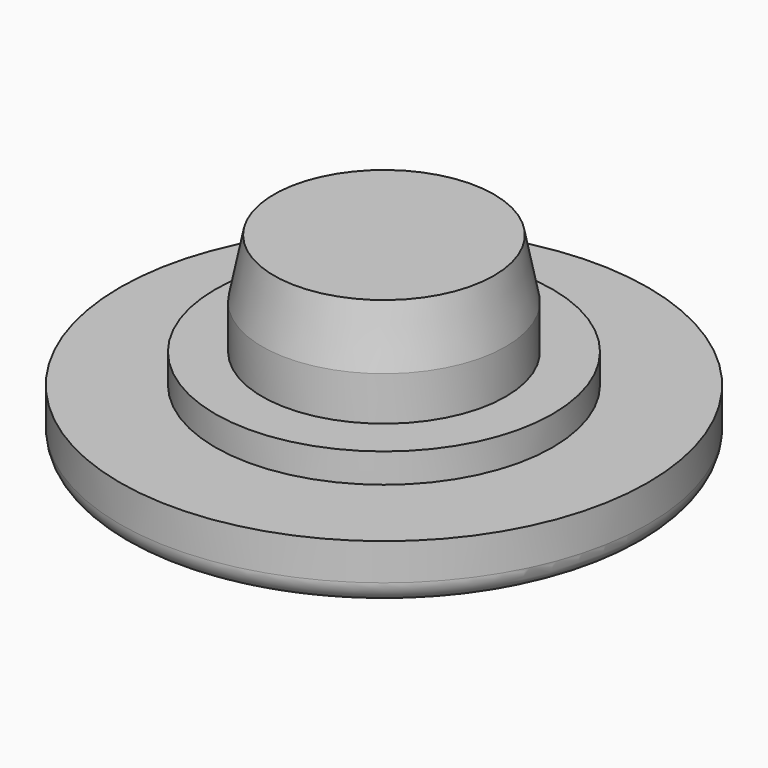
from build123d import *

# Parameters (mm, degrees)
F0_R     = 9
F1_DEPTH = 2
F2_R     = 5.75
F3_DEPTH = 1
F4_R     = 4.15
F5_DEPTH = 3.5
F6_R     = 0.75
F7_SIZE2 = 2
F7_SIZE  = 0.4


with BuildPart() as f1:
    # F0 (on Top) → F1 (new body)
    with BuildSketch(Plane.XY):
        Circle(F0_R)
    extrude(amount=F1_DEPTH)

    # F2 (on face) → F3 (join)
    with BuildSketch(Plane.XY.offset(2)):
        Circle(F2_R)
    extrude(amount=F3_DEPTH)

    # F4 (on face) → F5 (join)
    with BuildSketch(Plane.XY.offset(3)):
        Circle(F4_R)
    extrude(amount=F5_DEPTH)

    # F6
    f6_edges = [f1.edges().sort_by_distance(p)[0] for p in [
        (-9, 0, 0),
    ]]
    fillet(f6_edges, radius=F6_R)

    # F7
    f7_edges = [f1.edges().sort_by_distance(p)[0] for p in [
        (-4.15, 0, 6.5),
    ]]
    f7_side = f1.faces().sort_by_distance((0, 0, 6.5))[0]
    chamfer(f7_edges, length=F7_SIZE, length2=F7_SIZE2, reference=f7_side)


solid = f1.part
